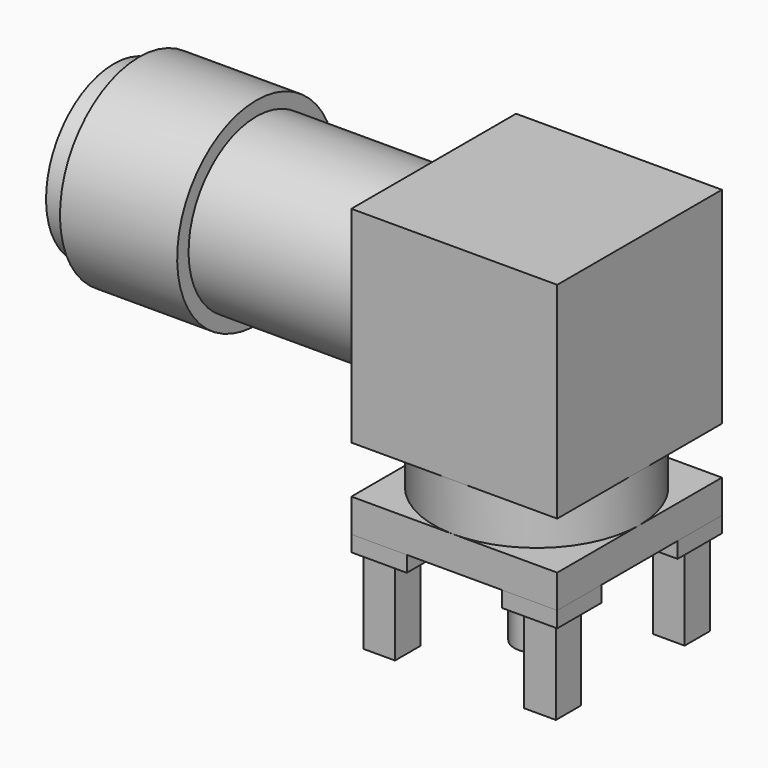
from build123d import *

# Parameters (mm, degrees)
CYLINDER_R        = 0.7
CYLINDER_DEPTH    = 3.2
BOX_W             = 6.5
BOX_H             = 6.5
BOX_DEPTH         = 1.05
CYLINDER001_R     = 3.25
CYLINDER001_DEPTH = 1.5
BOX001_W          = 6.5
BOX001_H          = 6.5
BOX001_DEPTH      = 6.5
CYLINDER002_R     = 2.675
CYLINDER002_DEPTH = 10.1
TUBE_R            = 3.125
TUBE_R_2          = 2.675
TUBE_DEPTH        = 3.7
BOX002_W          = 1.75
BOX002_H          = 1.75
BOX002_DEPTH      = 0.5
BOX003_W          = 1.75
BOX003_H          = 1.75
BOX003_DEPTH      = 0.5
BOX004_W          = 1.75
BOX004_H          = 1.75
BOX004_DEPTH      = 0.5
BOX005_W          = 1.75
BOX005_H          = 1.75
BOX005_DEPTH      = 0.5
BOX006_W          = 1
BOX006_H          = 1
BOX006_DEPTH      = 2.7
BOX007_W          = 1
BOX007_H          = 1
BOX007_DEPTH      = 2.7
BOX008_W          = 1
BOX008_H          = 1
BOX008_DEPTH      = 2.7
BOX009_W          = 1
BOX009_H          = 1
BOX009_DEPTH      = 2.7


with BuildPart() as cylinder:
    # Cylinder → Cylinder (new body)
    with BuildSketch(Plane.XY.offset(-3.2)):
        Circle(CYLINDER_R)
    extrude(amount=CYLINDER_DEPTH)


with BuildPart() as cube:
    # Box → Box (new body)
    with BuildSketch(Plane(origin=(-3.25, -3.25, 0), x_dir=(1, 0, 0), z_dir=(0, 0, 1))):
        with Locations((3.25, 3.25)):
            Rectangle(BOX_W, BOX_H)
    extrude(amount=BOX_DEPTH)


with BuildPart() as cylinder001:
    # Cylinder001 → Cylinder001 (new body)
    with BuildSketch(Plane.XY.offset(1.05)):
        Circle(CYLINDER001_R)
    extrude(amount=CYLINDER001_DEPTH)


with BuildPart() as cube001:
    # Box001 → Box001 (new body)
    with BuildSketch(Plane(origin=(-3.25, -3.25, 2.55), x_dir=(1, 0, 0), z_dir=(0, 0, 1))):
        with Locations((3.25, 3.25)):
            Rectangle(BOX001_W, BOX001_H)
    extrude(amount=BOX001_DEPTH)


with BuildPart() as cylinder002:
    # Cylinder002 → Cylinder002 (new body)
    with BuildSketch(Plane(origin=(-3.25, 0, 5.8), x_dir=(0, 0, 1), z_dir=(-1, 0, 0))):
        Circle(CYLINDER002_R)
    extrude(amount=CYLINDER002_DEPTH)


with BuildPart() as tube:
    # Tube → Tube (new body)
    with BuildSketch(Plane(origin=(-8.85, 0, 5.8), x_dir=(0, 0, 1), z_dir=(-1, 0, 0))):
        Circle(TUBE_R)
        Circle(TUBE_R_2, mode=Mode.SUBTRACT)
    extrude(amount=TUBE_DEPTH)


with BuildPart() as cube002:
    # Box002 → Box002 (new body)
    with BuildSketch(Plane(origin=(-3.25, -3.25, -0.5), x_dir=(1, 0, 0), z_dir=(0, 0, 1))):
        with Locations((0.875, 0.875)):
            Rectangle(BOX002_W, BOX002_H)
    extrude(amount=BOX002_DEPTH)


with BuildPart() as cube003:
    # Box003 → Box003 (new body)
    with BuildSketch(Plane(origin=(-3.25, 1.5, -0.5), x_dir=(1, 0, 0), z_dir=(0, 0, 1))):
        with Locations((0.875, 0.875)):
            Rectangle(BOX003_W, BOX003_H)
    extrude(amount=BOX003_DEPTH)


with BuildPart() as cube004:
    # Box004 → Box004 (new body)
    with BuildSketch(Plane(origin=(1.5, -3.25, -0.5), x_dir=(1, 0, 0), z_dir=(0, 0, 1))):
        with Locations((0.875, 0.875)):
            Rectangle(BOX004_W, BOX004_H)
    extrude(amount=BOX004_DEPTH)


with BuildPart() as cube005:
    # Box005 → Box005 (new body)
    with BuildSketch(Plane(origin=(1.5, 1.5, -0.5), x_dir=(1, 0, 0), z_dir=(0, 0, 1))):
        with Locations((0.875, 0.875)):
            Rectangle(BOX005_W, BOX005_H)
    extrude(amount=BOX005_DEPTH)


with BuildPart() as cube006:
    # Box006 → Box006 (new body)
    with BuildSketch(Plane(origin=(-3.04, -3.04, -3.2), x_dir=(1, 0, 0), z_dir=(0, 0, 1))):
        with Locations((0.5, 0.5)):
            Rectangle(BOX006_W, BOX006_H)
    extrude(amount=BOX006_DEPTH)


with BuildPart() as cube007:
    # Box007 → Box007 (new body)
    with BuildSketch(Plane(origin=(-3.04, 2.04, -3.2), x_dir=(1, 0, 0), z_dir=(0, 0, 1))):
        with Locations((0.5, 0.5)):
            Rectangle(BOX007_W, BOX007_H)
    extrude(amount=BOX007_DEPTH)


with BuildPart() as cube008:
    # Box008 → Box008 (new body)
    with BuildSketch(Plane(origin=(2.04, -3.04, -3.2), x_dir=(1, 0, 0), z_dir=(0, 0, 1))):
        with Locations((0.5, 0.5)):
            Rectangle(BOX008_W, BOX008_H)
    extrude(amount=BOX008_DEPTH)


with BuildPart() as cube009:
    # Box009 → Box009 (new body)
    with BuildSketch(Plane(origin=(2.04, 2.04, -3.2), x_dir=(1, 0, 0), z_dir=(0, 0, 1))):
        with Locations((0.5, 0.5)):
            Rectangle(BOX009_W, BOX009_H)
    extrude(amount=BOX009_DEPTH)


solid = Compound([cylinder.part, cube.part, cylinder001.part, cube001.part, cylinder002.part, tube.part, cube002.part, cube003.part, cube004.part, cube005.part, cube006.part, cube007.part, cube008.part, cube009.part])
